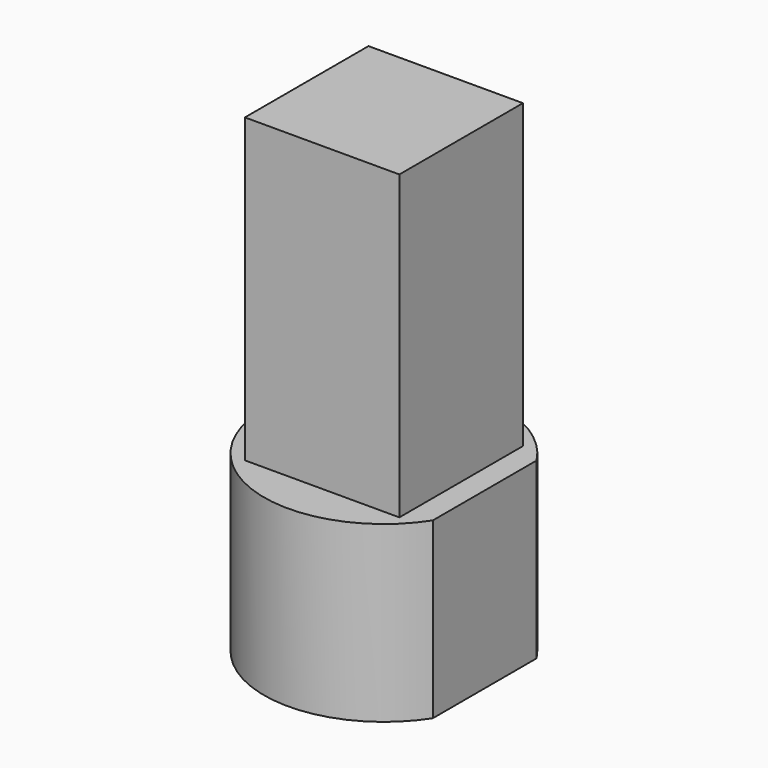
from build123d import *

# Parameters (mm, degrees)
F1_DEPTH = 15
F2_W     = 13.3
F2_H     = 13.3
F3_DEPTH = 26


with BuildPart() as f1:
    # F0 (on Top) → F1 (new body)
    with BuildSketch(Plane.XY):
        with BuildLine():
            Line((8.68, -5.582114), (8.68, 5.582114))
            ThreePointArc((8.68, 5.582114), (-10.32, 0), (8.68, -5.582114))
        make_face()
    extrude(amount=F1_DEPTH)

    # F2 (on face) → F3 (join)
    with BuildSketch(Plane.XY.offset(15)):
        Rectangle(F2_W, F2_H)
    extrude(amount=F3_DEPTH)


solid = f1.part
